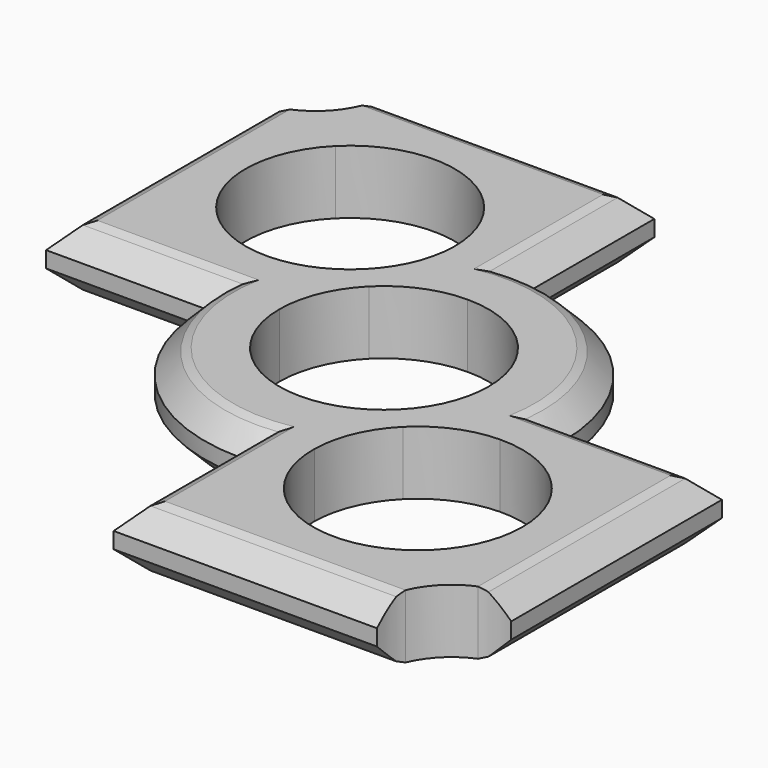
from build123d import *

# Parameters (mm, degrees)
F1_DEPTH = 6.8
F2_SIZE  = 2.54
F3_SIZE  = 0.508
F5_DEPTH = 6.801


with BuildPart() as f1:
    # F0 (on Top) → F1 (new body)
    with BuildSketch(Plane.XY):
        with BuildLine():
            ThreePointArc((0, -11.175), (-7.9019182798, -7.9019182798), (-11.175, 0))
            Line((-11.175, 0), (-19.135426009, 0))
            ThreePointArc((-19.135426009, 0), (-13.5307894918, -13.5307894918), (0, -19.135426009))
            Line((0, -19.135426009), (0, -11.175))
        make_face()
        with BuildLine():
            Line((-19.135426009, 0), (-11.175, 0))
            ThreePointArc((-11.175, 0), (-10.3243537758, 4.2764873567), (-7.9019182798, 7.9019182798))
            Line((-7.9019182798, 7.9019182798), (-10.1350344611, 10.1350344611))
            ThreePointArc((-10.1350344611, 10.1350344611), (-13.6801442317, 7.7438710244), (-17.8637937449, 6.8592566349))
            ThreePointArc((-17.8637937449, 6.8592566349), (-18.8148323403, 3.4880671653), (-19.135426009, 0))
        make_face()
        with BuildLine():
            ThreePointArc((-7.9019182798, 7.9019182798), (-4.2764873567, 10.3243537758), (0, 11.175))
            Line((0, 11.175), (0, 19.135426009))
            ThreePointArc((0, 19.135426009), (-3.4923449173, 18.8140387882), (-6.8673791432, 17.8606727826))
            ThreePointArc((-6.8673791432, 17.8606727826), (-7.7488210815, 13.6796226746), (-10.1350344611, 10.1350344611))
            Line((-10.1350344611, 10.1350344611), (-7.9019182798, 7.9019182798))
        make_face()
        with BuildLine():
            Line((0, 19.135426009), (0, 11.175))
            ThreePointArc((0, 11.175), (7.9019182798, 7.9019182798), (11.175, 0))
            Line((11.175, 0), (19.135426009, 0))
            ThreePointArc((19.135426009, 0), (13.5307894918, 13.5307894918), (0, 19.135426009))
        make_face()
        with BuildLine():
            Line((19.135426009, 0), (11.175, 0))
            ThreePointArc((11.175, 0), (10.3243537758, -4.2764873567), (7.9019182798, -7.9019182798))
            Line((7.9019182798, -7.9019182798), (10.139134376, -10.139134376))
            ThreePointArc((10.139134376, -10.139134376), (13.6813541851, -7.7515602366), (17.8606227185, -6.8675093486))
            ThreePointArc((17.8606227185, -6.8675093486), (18.8140260583, -3.4924134951), (19.135426009, 0))
        make_face()
        with BuildLine():
            ThreePointArc((7.9019182798, -7.9019182798), (4.2764873567, -10.3243537758), (0, -11.175))
            Line((0, -11.175), (0, -19.135426009))
            ThreePointArc((0, -19.135426009), (3.4924134951, -18.8140260583), (6.8675093486, -17.8606227185))
            ThreePointArc((6.8675093486, -17.8606227185), (7.7515602366, -13.6813541851), (10.139134376, -10.139134376))
            Line((10.139134376, -10.139134376), (7.9019182798, -7.9019182798))
        make_face()
        with BuildLine():
            Line((-36.0821053116, 0), (-19.135426009, 0))
            ThreePointArc((-19.135426009, 0), (-18.8148323403, 3.4880671653), (-17.8637937449, 6.8592566349))
            ThreePointArc((-17.8637937449, 6.8592566349), (-22.2382076575, 7.6759923472), (-25.9470708504, 10.1350344611))
            Line((-25.9470708504, 10.1350344611), (-36.0821053116, 0))
        make_face()
        with BuildLine():
            ThreePointArc((-6.8673791432, 17.8606727826), (-3.4923449173, 18.8140387882), (0, 19.135426009))
            Line((0, 19.135426009), (0, 36.0821053116))
            Line((0, 36.0821053116), (-10.1432364193, 25.9388688923))
            ThreePointArc((-10.1432364193, 25.9388688923), (-7.7178089445, 22.3120170041), (-6.8660526558, 18.0328506976))
            ThreePointArc((-6.8660526558, 18.0328506976), (-6.8663842826, 17.9467591853), (-6.8673791432, 17.8606727826))
        make_face()
        with BuildLine():
            Line((36.0821053116, 0), (19.135426009, 0))
            ThreePointArc((19.135426009, 0), (18.8140260583, -3.4924134951), (17.8606227185, -6.8675093486))
            ThreePointArc((17.8606227185, -6.8675093486), (22.2340501678, -7.6825104386), (25.9429709355, -10.139134376))
            Line((25.9429709355, -10.139134376), (36.0821053116, 0))
        make_face()
        with BuildLine():
            ThreePointArc((6.8675093486, -17.8606227185), (3.4924134951, -18.8140260583), (0, -19.135426009))
            Line((0, -19.135426009), (0, -36.0821053116))
            Line((0, -36.0821053116), (10.139134376, -25.9429709355))
            ThreePointArc((10.139134376, -25.9429709355), (7.6825104386, -22.2340501678), (6.8675093486, -17.8606227185))
        make_face()
        with BuildLine():
            Line((-36.0821053116, 36.0821053116), (-36.0821053116, 0))
            Line((-36.0821053116, 0), (-25.9470708504, 10.1350344611))
            ThreePointArc((-25.9470708504, 10.1350344611), (-29.2160511508, 18.0386503579), (-25.9388688923, 25.9388688923))
            Line((-25.9388688923, 25.9388688923), (-36.0821053116, 36.0821053116))
        make_face()
        with BuildLine():
            Line((-10.1432364193, 25.9388688923), (0, 36.0821053116))
            Line((0, 36.0821053116), (-36.0821053116, 36.0821053116))
            Line((-36.0821053116, 36.0821053116), (-25.9388688923, 25.9388688923))
            ThreePointArc((-25.9388688923, 25.9388688923), (-18.0410526558, 29.2078506976), (-10.1432364193, 25.9388688923))
        make_face()
        with BuildLine():
            Line((36.0821053116, -36.0821053116), (36.0821053116, 0))
            Line((36.0821053116, 0), (25.9429709355, -10.139134376))
            ThreePointArc((25.9429709355, -10.139134376), (28.3654064316, -13.7645652991), (29.2160526558, -18.0410526558))
            ThreePointArc((29.2160526558, -18.0410526558), (28.3654064316, -22.3175400125), (25.9429709355, -25.9429709355))
            Line((25.9429709355, -25.9429709355), (36.0821053116, -36.0821053116))
        make_face()
        with BuildLine():
            Line((10.139134376, -25.9429709355), (0, -36.0821053116))
            Line((0, -36.0821053116), (36.0821053116, -36.0821053116))
            Line((36.0821053116, -36.0821053116), (25.9429709355, -25.9429709355))
            ThreePointArc((25.9429709355, -25.9429709355), (18.0410526558, -29.2160526558), (10.139134376, -25.9429709355))
        make_face()
    extrude(amount=F1_DEPTH)

    # F2
    f2_edges = [f1.edges().sort_by_distance(p)[0] for p in [
        (-13.530789, -13.530789, 6.8),
        (-13.530789, -13.530789, 0),
        (-27.608766, 0, 6.8),
        (-27.608766, 0, 0),
        (18.041053, -36.082105, 6.8),
        (18.041053, -36.082105, 0),
        (0, -27.608766, 0),
        (0, -27.608766, 6.8),
        (36.082105, -18.041053, 6.8),
        (36.082105, -18.041053, 0),
        (27.608766, 0, 0),
        (27.608766, 0, 6.8),
        (13.530789, 13.530789, 6.8),
        (13.530789, 13.530789, 0),
        (0, 27.608766, 6.8),
        (0, 27.608766, 0),
        (-18.041053, 36.082105, 0),
        (-18.041053, 36.082105, 6.8),
        (-36.082105, 18.041053, 6.8),
        (-36.082105, 18.041053, 0),
    ]]
    chamfer(f2_edges, length=F2_SIZE)

    # F3
    f3_edges = [f1.edges().sort_by_distance(p)[0] for p in [
        (-33.542105, 18.041053, 6.8),
        (-24.971, 2.54, 6.8),
        (-11.734738, -11.734738, 6.8),
        (2.54, -24.971, 6.8),
        (18.041053, -33.542105, 6.8),
        (33.542105, -18.041053, 6.8),
        (24.971, -2.54, 6.8),
        (11.734738, 11.734738, 6.8),
        (-2.54, 24.971, 6.8),
        (-18.041053, 33.542105, 6.8),
        (33.542105, -18.041053, 0),
        (18.041053, -33.542105, 0),
        (2.54, -24.971, 0),
        (-11.734738, -11.734738, 0),
        (-24.971, 2.54, 0),
        (-33.542105, 18.041053, 0),
        (-18.041053, 33.542105, 0),
        (-2.54, 24.971, 0),
        (11.734738, 11.734738, 0),
        (24.971, -2.54, 0),
    ]]
    chamfer(f3_edges, length=F3_SIZE)

    # F4 (on face) → F5 (cut, through all)
    with BuildSketch(Plane.XY.offset(6.8)):
        with BuildLine():
            Line((-36.1747518182, 36.0786728561), (-28.1747518182, 36.0786728561))
            ThreePointArc((-28.1747518182, 36.0786728561), (-41.8316060677, 41.7355271056), (-36.1747518182, 28.0786728561))
            Line((-36.1747518182, 28.0786728561), (-36.1747518182, 36.0786728561))
        make_face()
        with BuildLine():
            Line((-28.7767379991, 33.0341053116), (-33.0341053116, 33.0341053116))
            Line((-33.0341053116, 33.0341053116), (-33.0341053116, 28.7209327465))
            ThreePointArc((-33.0341053116, 28.7209327465), (-30.4811848555, 30.4587711451), (-28.7767379991, 33.0341053116))
        make_face()
        with BuildLine():
            Line((-33.0341053116, 28.7209327465), (-33.0341053116, 33.0341053116))
            Line((-33.0341053116, 33.0341053116), (-28.7767379991, 33.0341053116))
            ThreePointArc((-28.7767379991, 33.0341053116), (-28.3266912121, 34.5269174875), (-28.1747518182, 36.0786728561))
            Line((-28.1747518182, 36.0786728561), (-36.1747518182, 36.0786728561))
            Line((-36.1747518182, 36.0786728561), (-36.1747518182, 28.0786728561))
            ThreePointArc((-36.1747518182, 28.0786728561), (-34.5719294445, 28.2408823231), (-33.0341053116, 28.7209327465))
        make_face()
        with BuildLine():
            Line((36.1097641289, -36.1202992499), (36.1097641289, -28.1202992499))
            ThreePointArc((36.1097641289, -28.1202992499), (34.5415065384, -28.2755195761), (33.0341053116, -28.7351572175))
            Line((33.0341053116, -28.7351572175), (33.0341053116, -33.0341053116))
            Line((33.0341053116, -33.0341053116), (28.7290184366, -33.0341053116))
            ThreePointArc((28.7290184366, -33.0341053116), (28.2661053673, -34.5464449902), (28.1097641289, -36.1202992499))
            Line((28.1097641289, -36.1202992499), (36.1097641289, -36.1202992499))
        make_face()
        with BuildLine():
            ThreePointArc((44.1097641289, -36.1202992499), (41.7666183784, -30.4634450004), (36.1097641289, -28.1202992499))
            Line((36.1097641289, -28.1202992499), (36.1097641289, -36.1202992499))
            Line((36.1097641289, -36.1202992499), (28.1097641289, -36.1202992499))
            ThreePointArc((28.1097641289, -36.1202992499), (36.1097641289, -44.1202992499), (44.1097641289, -36.1202992499))
        make_face()
        with BuildLine():
            Line((33.0341053116, -33.0341053116), (33.0341053116, -28.7351572175))
            ThreePointArc((33.0341053116, -28.7351572175), (30.4569473535, -30.459410406), (28.7290184366, -33.0341053116))
            Line((28.7290184366, -33.0341053116), (33.0341053116, -33.0341053116))
        make_face()
    extrude(amount=-F5_DEPTH, mode=Mode.SUBTRACT)


solid = f1.part
